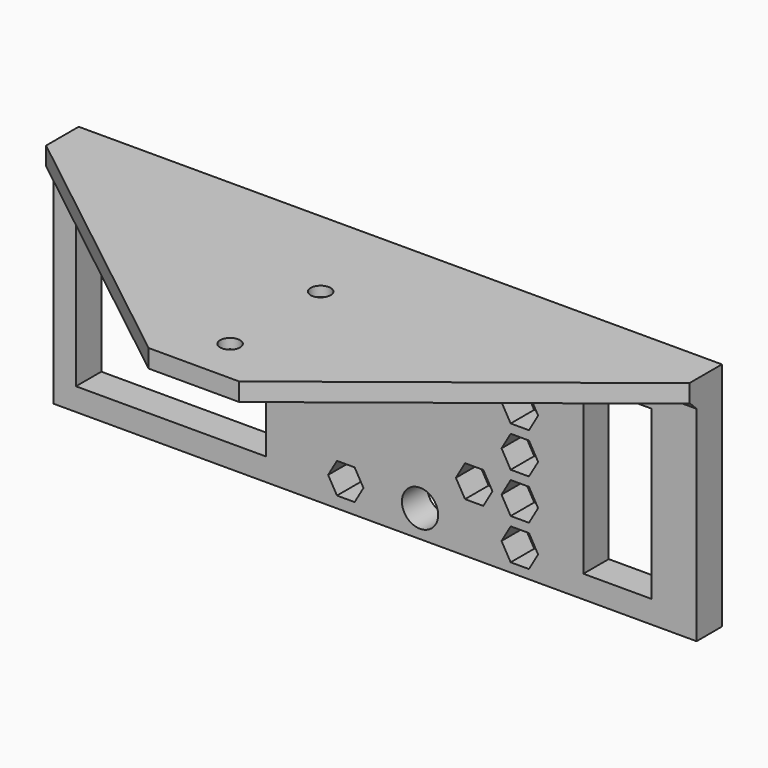
from build123d import *

# Parameters (mm, degrees)
SKETCH_W            = 142.082904
SKETCH_H            = 47
SKETCH_R            = 4
SKETCH_W_2          = 42
SKETCH_H_2          = 37
SKETCH_W_3          = 15
PAD_DEPTH           = 7
POCKET_DEPTH        = 6.5
LINEARPATTERN_COUNT = 5
LINEARPATTERN_PITCH = 9
POCKET001_DEPTH     = 6.5
PAD001_DEPTH        = 4
CHAMFER_SIZE        = 1.8
HOLE_D              = 4.4
HOLE_DEPTH          = 25
HOLE_CSINK_D        = 8
HOLE_CSINK_ANGLE    = 90
POCKET002_DEPTH     = 7.001


with BuildPart() as part:
    # Sketch → Pad (new body)
    with BuildSketch(Plane.XZ):
        with Locations((71.041452, 23.5)):
            Rectangle(SKETCH_W, SKETCH_H)
        with Locations((81, 31.5)):
            Circle(SKETCH_R, mode=Mode.SUBTRACT)
        with Locations((81, 6)):
            Circle(SKETCH_R, mode=Mode.SUBTRACT)
        with Locations((26, 23.5)):
            Rectangle(SKETCH_W_2, SKETCH_H_2, mode=Mode.SUBTRACT)
        with Locations((124.582904, 23.5)):
            Rectangle(SKETCH_W_3, SKETCH_H_2, mode=Mode.SUBTRACT)
    extrude(amount=PAD_DEPTH)

    # Sketch001 (on Face16 of Pad) → Pocket (cut)
    with BuildSketch(Plane.XZ.offset(7)):
        Polygon((105.062178, 45), (101.020726, 45), (99, 41.5), (101.020726, 38), (105.062178, 38), (107.082904, 41.5), align=None)
    pocket = extrude(amount=-POCKET_DEPTH, mode=Mode.SUBTRACT)

    # LinearPattern: Pocket ×5
    with Locations(*[(0, 0, -i * LINEARPATTERN_PITCH) for i in range(1, LINEARPATTERN_COUNT)]):
        add(pocket, mode=Mode.SUBTRACT)

    # Sketch002 (on Face5 of LinearPattern) → Pocket001 (cut)
    with BuildSketch(Plane.XZ.offset(7)):
        Polygon((94.979274, 11), (97, 14.5), (94.979274, 18), (90.937822, 18), (88.917096, 14.5), (90.937822, 11), align=None)
    extrude(amount=-POCKET001_DEPTH, mode=Mode.SUBTRACT)

    # Sketch003 (on Face1 of Pocket001) → Pad001 (join)
    with BuildSketch(Plane(origin=(0, 0, 47), x_dir=(-1, 0, 0), z_dir=(0, 0, 1))):
        Polygon((-142.082904, 9), (-81.041452, 57), (-61.041452, 57), (0, 9), (0, 0), (-142.082904, 0), align=None)
    extrude(amount=PAD001_DEPTH)

    # Chamfer
    chamfer_edges = [part.edges().sort_by_distance(p)[0] for p in [
        (71.041452, -7, 47),
    ]]
    chamfer(chamfer_edges, length=CHAMFER_SIZE)

    # Hole
    with Locations(Plane(origin=(0, 0, 47), x_dir=(1, 0, 0), z_dir=(0, 0, -1))):
        with Locations((71.041452, 47), (71.041452, 22)):
            CounterSinkHole(HOLE_D / 2, HOLE_CSINK_D / 2, depth=HOLE_DEPTH, counter_sink_angle=HOLE_CSINK_ANGLE)

    # Sketch005 (on Face2 of Hole) → Pocket002 (cut, through all)
    with BuildSketch(Plane.XZ.offset(7)):
        Polygon((66.55, 2.5), (68.5, 5.877499), (66.55, 9.254998), (62.65, 9.254998), (60.7, 5.877499), (62.65, 2.5), align=None)
    extrude(amount=-POCKET002_DEPTH, mode=Mode.SUBTRACT)


solid = part.part
